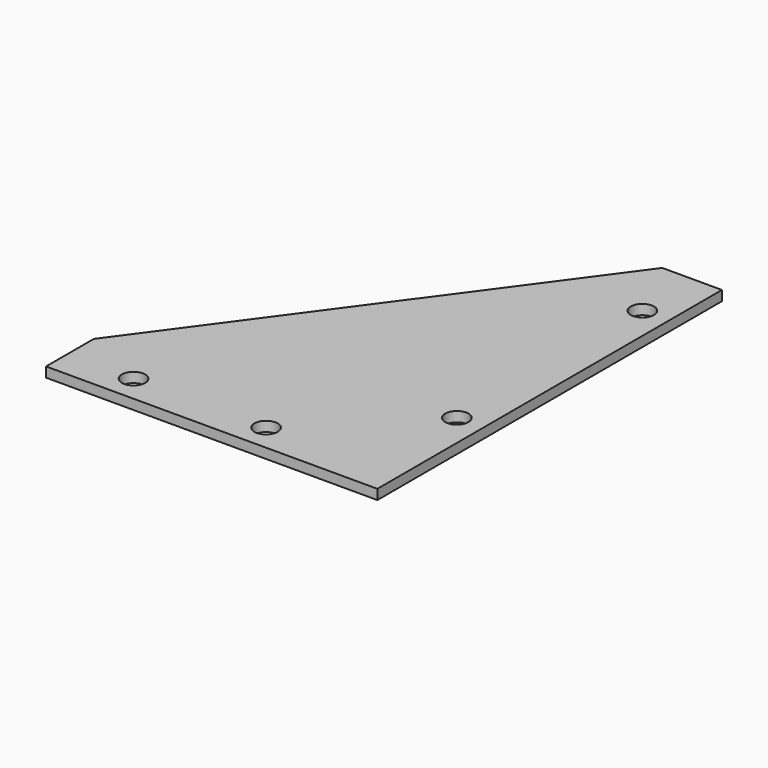
from build123d import *

# Parameters (mm, degrees)
F0_R     = 1.75
F1_DEPTH = 1.5


with BuildPart() as f1:
    # F0 (on Top) → F1 (new body)
    with BuildSketch(Plane.XY):
        Polygon((-50, 0), (0, 0), (0, 65), (-9, 65), (-50, 9), align=None)
        with Locations((-40, 4)):
            Circle(F0_R, mode=Mode.SUBTRACT)
        with Locations((-20, 4)):
            Circle(F0_R, mode=Mode.SUBTRACT)
        with Locations((-4, 20)):
            Circle(F0_R, mode=Mode.SUBTRACT)
        with Locations((-4, 55)):
            Circle(F0_R, mode=Mode.SUBTRACT)
    extrude(amount=F1_DEPTH)


solid = f1.part
